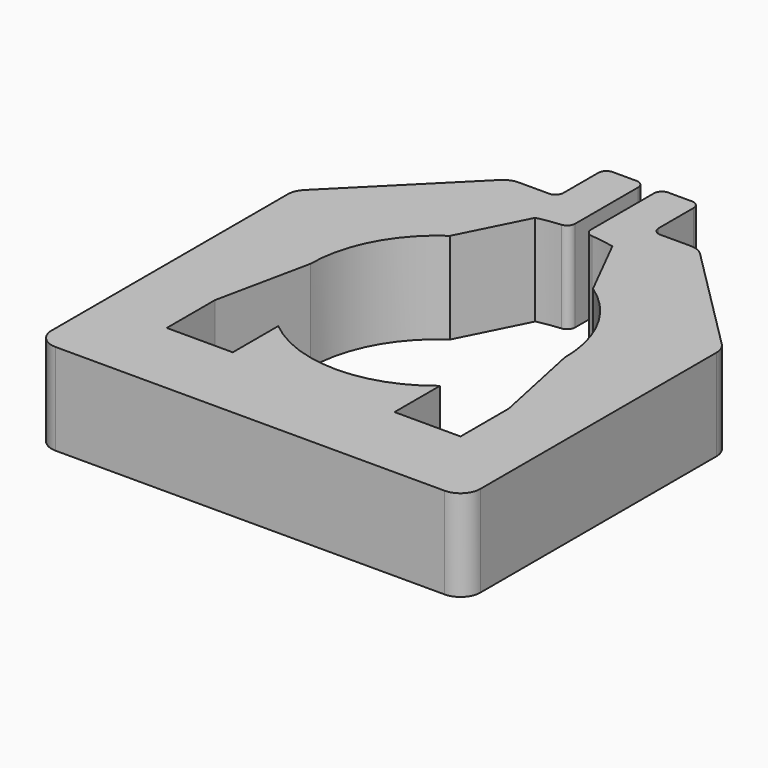
from build123d import *

# Parameters (mm, degrees)
F1_DEPTH = 23


with BuildPart() as f1:
    # F0 (on Top) → F1 (new body)
    with BuildSketch(Plane.XY):
        with BuildLine():
            ThreePointArc((-9.712326, 42.914691), (-6.784772, 43.473749), (-3.826087, 43.833333))
            ThreePointArc((-3.826087, 43.833333), (-2.52558, 44.474429), (-2, 45.825757))
            Line((-2, 45.825757), (-2, 65.649786))
            ThreePointArc((-2, 65.649786), (-2.585786, 67.064), (-4, 67.649786))
            Line((-4, 67.649786), (-10, 67.649786))
            ThreePointArc((-10, 67.649786), (-11.414214, 67.064), (-12, 65.649786))
            Line((-12, 65.649786), (-12, 54.649786))
            ThreePointArc((-12, 54.649786), (-12.585786, 53.235573), (-14, 52.649786))
            Line((-14, 52.649786), (-21.646678, 52.649786))
            ThreePointArc((-21.646678, 52.649786), (-23.560095, 52.269184), (-25.182212, 51.18532))
            Line((-25.182212, 51.18532), (-52.535534, 23.831998))
            ThreePointArc((-52.535534, 23.831998), (-53.619398, 22.209882), (-54, 20.296465))
            Line((-54, 20.296465), (-54, -54))
            ThreePointArc((-54, -54), (-52.535534, -57.535534), (-49, -59))
            Line((-49, -59), (49, -59))
            ThreePointArc((49, -59), (52.535534, -57.535534), (54, -54))
            Line((54, -54), (54, 20.296465))
            ThreePointArc((54, 20.296465), (53.619398, 22.209882), (52.535534, 23.831998))
            Line((52.535534, 23.831998), (25.182212, 51.18532))
            ThreePointArc((25.182212, 51.18532), (23.560095, 52.269184), (21.646678, 52.649786))
            Line((21.646678, 52.649786), (14, 52.649786))
            ThreePointArc((14, 52.649786), (12.585786, 53.235573), (12, 54.649786))
            Line((12, 54.649786), (12, 65.649786))
            ThreePointArc((12, 65.649786), (11.414214, 67.064), (10, 67.649786))
            Line((10, 67.649786), (4, 67.649786))
            ThreePointArc((4, 67.649786), (2.585786, 67.064), (2, 65.649786))
            Line((2, 65.649786), (2, 45.825757))
            ThreePointArc((2, 45.825757), (2.52558, 44.474429), (3.826087, 43.833333))
            ThreePointArc((3.826087, 43.833333), (6.784772, 43.473749), (9.712326, 42.914691))
            ThreePointArc((9.712326, 42.914691), (17.672531, 40.294933), (24.991669, 36.213485))
            ThreePointArc((24.991669, 36.213485), (38.959167, 20.44953), (44, 0))
            ThreePointArc((44, 0), (42.213742, -12.409674), (37, -23.811762))
            Line((37, -23.811762), (37, -39))
            Line((37, -39), (20.371549, -39))
            ThreePointArc((20.371549, -39), (0, -44), (-20.371549, -39))
            Line((-20.371549, -39), (-37, -39))
            Line((-37, -39), (-37, -23.811762))
            ThreePointArc((-37, -23.811762), (-42.213742, -12.409674), (-44, 0))
            ThreePointArc((-44, 0), (-38.959167, 20.44953), (-24.991669, 36.213485))
            ThreePointArc((-24.991669, 36.213485), (-17.672531, 40.294933), (-9.712326, 42.914691))
        make_face()
        with BuildLine():
            Line((-17.997927, 26.458923), (-24.991669, 36.213485))
            ThreePointArc((-24.991669, 36.213485), (-38.959167, 20.44953), (-44, 0))
            Line((-44, 0), (-32, 0))
            ThreePointArc((-32, 0), (-28.283685, 14.967738), (-17.997927, 26.458923))
        make_face()
        with BuildLine():
            ThreePointArc((20.371549, -24.677925), (0, -32), (-20.371549, -24.677925))
            Line((-20.371549, -24.677925), (-20.371549, -39))
            ThreePointArc((-20.371549, -39), (0, -44), (20.371549, -39))
            Line((20.371549, -39), (20.371549, -24.677925))
        make_face()
        with BuildLine():
            Line((24.991669, 36.213485), (17.997927, 26.458923))
            ThreePointArc((17.997927, 26.458923), (28.283685, 14.967738), (32, 0))
            Line((32, 0), (44, 0))
            ThreePointArc((44, 0), (38.959167, 20.44953), (24.991669, 36.213485))
        make_face()
        with BuildLine():
            Line((-32, 0), (-44, 0))
            ThreePointArc((-44, 0), (-42.213742, -12.409674), (-37, -23.811762))
            Line((-37, -23.811762), (-32, 0))
        make_face()
        with BuildLine():
            Line((44, 0), (32, 0))
            Line((32, 0), (37, -23.811762))
            ThreePointArc((37, -23.811762), (42.213742, -12.409674), (44, 0))
        make_face()
        with BuildLine():
            Line((-17.997927, 26.458923), (-9.712326, 42.914691))
            ThreePointArc((-9.712326, 42.914691), (-17.672531, 40.294933), (-24.991669, 36.213485))
            Line((-24.991669, 36.213485), (-17.997927, 26.458923))
        make_face()
        with BuildLine():
            Line((9.712326, 42.914691), (17.997927, 26.458923))
            Line((17.997927, 26.458923), (24.991669, 36.213485))
            ThreePointArc((24.991669, 36.213485), (17.672531, 40.294933), (9.712326, 42.914691))
        make_face()
    extrude(amount=F1_DEPTH)


solid = f1.part
